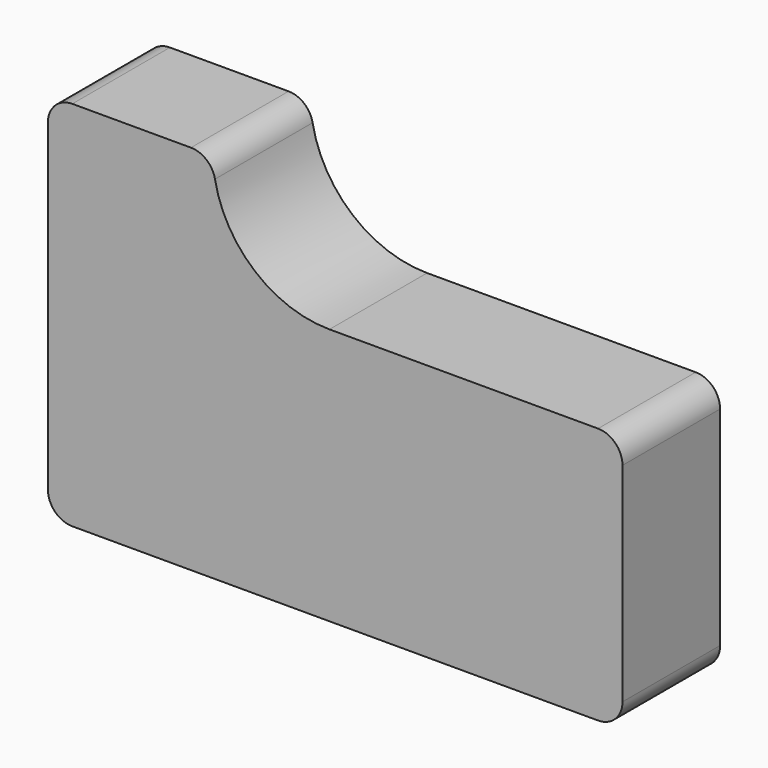
from build123d import *

# Parameters (mm, degrees)
F1_DEPTH = 12.7
F2_R     = 5.08
F3_R     = 5.08


with BuildPart() as f1:
    # F0 (on Front) → F1 (new body, symmetric)
    with BuildSketch(Plane.XZ):
        with BuildLine():
            Line((-24.244117, 34.463618), (-58.59901, 34.463618))
            Line((-58.59901, 34.463618), (-58.59901, -42.943612))
            Line((-58.59901, -42.943612), (60.990814, -42.943612))
            Line((60.990814, -42.943612), (60.990814, 10.545651))
            Line((60.990814, 10.545651), (0, 10.545651))
            ThreePointArc((0, 10.545651), (-17.028258, 17.531533), (-24.244117, 34.463618))
        make_face()
    extrude(amount=F1_DEPTH, both=True)

    # F2
    f2_edges = [f1.edges().sort_by_distance(p)[0] for p in [
        (-58.59901, 0, 34.463618),
        (60.990814, 0, 10.545651),
        (60.990814, 0, -42.943612),
    ]]
    fillet(f2_edges, radius=F2_R)

    # F3
    f3_edges = [f1.edges().sort_by_distance(p)[0] for p in [
        (-58.59901, 0, -42.943612),
        (-24.244117, 0, 34.463618),
    ]]
    fillet(f3_edges, radius=F3_R)


solid = f1.part
